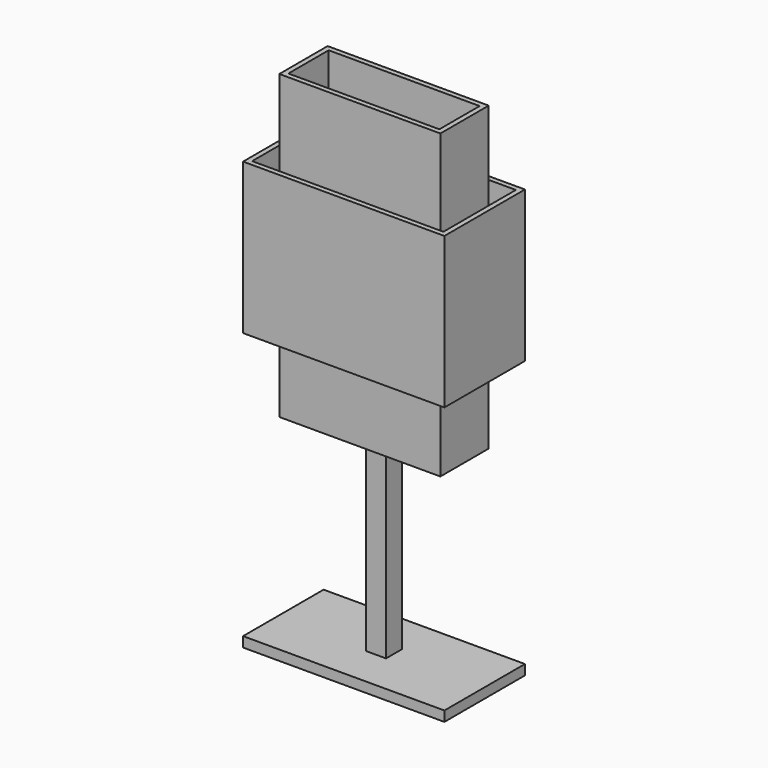
from build123d import *

# Parameters (mm, degrees)
F0_W          = 20
F0_H          = 190
F0_H_2        = 5
F0_H_3        = 70
F1_DEPTH      = 10
F1_DEPTH_BACK = 10
F2_DEPTH      = 50
F3_START      = 45
F0_W_2        = 15
F0_W_3        = 75
F0_W_4        = 5
F0_H_4        = 140
F0_W_5        = 65
F3_DEPTH      = 5
F4_DEPTH      = 30
F5_START      = 25
F0_W_6        = 150
F5_DEPTH      = 5


with BuildPart() as f1:
    # F0 (on Front) → F1 (new body, two sides)
    with BuildSketch(Plane.XZ) as f1_sk:
        with Locations((0, 105)):
            Rectangle(F0_W, F0_H)
        with Locations((0, 202.5)):
            Rectangle(F0_W, F0_H_2)
        with Locations((0, 240)):
            Rectangle(F0_W, F0_H_3)
        with Locations((0, 277.5)):
            Rectangle(F0_W, F0_H_2)
        with Locations((0, 315)):
            Rectangle(F0_W, F0_H_3)
    extrude(amount=F1_DEPTH)
    extrude(f1_sk.sketch, amount=-F1_DEPTH_BACK)

    # F0 (on Front) → F2, piece 3 (join)
    with BuildSketch(Plane.XZ):
        Polygon((10, 10), (-10, 10), (-100, 10), (-100, 0), (100, 0), (100, 10), align=None)
    extrude(amount=F2_DEPTH)



with BuildPart() as f2:
    # F0 (on Front) → F2 (new body)
    with BuildSketch(Plane.XZ):
        Polygon((-95, 425), (-100, 425), (-100, 275), (-95, 275), (-95, 280), (-95, 420), align=None)
    extrude(amount=F2_DEPTH)



with BuildPart() as f2b:
    # F0 (on Front) → F2, piece 2 (new body)
    with BuildSketch(Plane.XZ):
        Polygon((100, 425), (95, 425), (95, 420), (95, 280), (95, 275), (100, 275), align=None)
    extrude(amount=F2_DEPTH)


with BuildPart() as f2_1:
    add(f2.part)

    add(f2b.part)  # F3 merges F2b
    # F0 (on Front) → F3 (join)
    with BuildSketch(Plane.XZ.offset(F3_START)):
        with Locations((87.5, 422.5)):
            Rectangle(F0_W_2, F0_H_2)
        with Locations((37.5, 422.5)):
            Rectangle(F0_W_3, F0_H_2)
        with Locations((77.5, 422.5)):
            Rectangle(F0_W_4, F0_H_2)
        with Locations((-37.5, 422.5)):
            Rectangle(F0_W_3, F0_H_2)
        with Locations((-87.5, 422.5)):
            Rectangle(F0_W_2, F0_H_2)
        with Locations((-77.5, 422.5)):
            Rectangle(F0_W_4, F0_H_2)
        with Locations((-87.5, 350)):
            Rectangle(F0_W_2, F0_H_4)
        with Locations((-77.5, 350)):
            Rectangle(F0_W_4, F0_H_4)
        with Locations((77.5, 350)):
            Rectangle(F0_W_4, F0_H_4)
        with Locations((87.5, 350)):
            Rectangle(F0_W_2, F0_H_4)
        Polygon((0, 420), (-75, 420), (-75, 280), (-10, 280), (-10, 350), (10, 350), (10, 280), (75, 280), (75, 420), align=None)
        with Locations((0, 315)):
            Rectangle(F0_W, F0_H_3)
        with Locations((87.5, 277.5)):
            Rectangle(F0_W_2, F0_H_2)
        with Locations((77.5, 277.5)):
            Rectangle(F0_W_4, F0_H_2)
        with Locations((42.5, 277.5)):
            Rectangle(F0_W_5, F0_H_2)
        with Locations((0, 277.5)):
            Rectangle(F0_W, F0_H_2)
        with Locations((-42.5, 277.5)):
            Rectangle(F0_W_5, F0_H_2)
        with Locations((-77.5, 277.5)):
            Rectangle(F0_W_4, F0_H_2)
        with Locations((-87.5, 277.5)):
            Rectangle(F0_W_2, F0_H_2)
    extrude(amount=F3_DEPTH)


with BuildPart() as f4:
    # F0 (on Front) → F4 (new body)
    with BuildSketch(Plane.XZ):
        Polygon((75, 495), (75, 425), (80, 425), (80, 500), (75, 500), align=None)
        with Locations((77.5, 422.5)):
            Rectangle(F0_W_4, F0_H_2)
        with Locations((77.5, 350)):
            Rectangle(F0_W_4, F0_H_4)
        with Locations((77.5, 277.5)):
            Rectangle(F0_W_4, F0_H_2)
        Polygon((80, 275), (75, 275), (75, 205), (75, 200), (80, 200), align=None)
    extrude(amount=F4_DEPTH)



with BuildPart() as f4b:
    # F0 (on Front) → F4, piece 2 (new body)
    with BuildSketch(Plane.XZ):
        Polygon((-75, 275), (-80, 275), (-80, 200), (-75, 200), (-75, 205), align=None)
        with Locations((-77.5, 277.5)):
            Rectangle(F0_W_4, F0_H_2)
        with Locations((-77.5, 350)):
            Rectangle(F0_W_4, F0_H_4)
        Polygon((-80, 500), (-80, 425), (-75, 425), (-75, 495), (-75, 500), align=None)
        with Locations((-77.5, 422.5)):
            Rectangle(F0_W_4, F0_H_2)
    extrude(amount=F4_DEPTH)


with BuildPart() as f4_1:
    add(f4.part)

    add(f4b.part)  # F5 merges F4b
    # F0 (on Front) → F5 (join)
    with BuildSketch(Plane.XZ.offset(F5_START)):
        with Locations((0, 497.5)):
            Rectangle(F0_W_6, F0_H_2)
        Polygon((-75, 495), (-75, 425), (0, 425), (75, 425), (75, 495), align=None)
        with Locations((37.5, 422.5)):
            Rectangle(F0_W_3, F0_H_2)
        with Locations((-37.5, 422.5)):
            Rectangle(F0_W_3, F0_H_2)
        Polygon((0, 420), (-75, 420), (-75, 280), (-10, 280), (-10, 350), (10, 350), (10, 280), (75, 280), (75, 420), align=None)
        with Locations((0, 315)):
            Rectangle(F0_W, F0_H_3)
        with Locations((0, 277.5)):
            Rectangle(F0_W, F0_H_2)
        with Locations((-42.5, 277.5)):
            Rectangle(F0_W_5, F0_H_2)
        with Locations((42.5, 277.5)):
            Rectangle(F0_W_5, F0_H_2)
        with Locations((42.5, 240)):
            Rectangle(F0_W_5, F0_H_3)
        with Locations((-42.5, 240)):
            Rectangle(F0_W_5, F0_H_3)
        with Locations((0, 240)):
            Rectangle(F0_W, F0_H_3)
        with Locations((42.5, 202.5)):
            Rectangle(F0_W_5, F0_H_2)
        with Locations((0, 202.5)):
            Rectangle(F0_W, F0_H_2)
        with Locations((-42.5, 202.5)):
            Rectangle(F0_W_5, F0_H_2)
    extrude(amount=F5_DEPTH)


with BuildPart() as f1_1:
    add(f1.part)

    add(f2_1.part)  # F6 merges F2

    add(f4_1.part)  # F6 merges F4
    # F6: F4, F2, F1 across plane
    add(f4_1.part.mirror(Plane.XZ))
    add(f2_1.part.mirror(Plane.XZ))
    add(f1.part.mirror(Plane.XZ))


solid = f1_1.part
